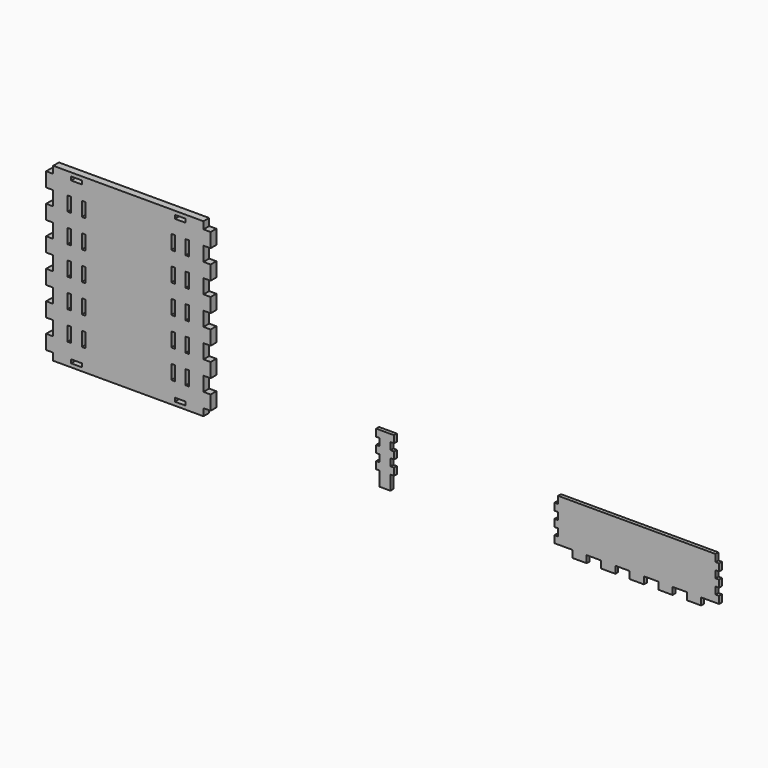
from build123d import *

# Parameters (mm, degrees)
F0_W     = 12.7
F0_H     = 6.35
F1_DEPTH = 3.175
F2_W     = 3.175
F2_H     = 6.35
F2_W_2   = 9.525
F3_DEPTH = 3.175
F4_W     = 9.525
F4_H     = 3.175
F4_W_2   = 3.175
F4_H_2   = 12.7
F4_W_3   = 6.35
F5_DEPTH = 6.35


with BuildPart() as f1:
    # F0 (on Front) → F1 (new body)
    with BuildSketch(Plane.XZ):
        Polygon((0, 6.35), (0, 0), (15.875, 0), (28.575, 0), (41.275, 0), (53.975, 0), (66.675, 0), (79.375, 0), (92.075, 0), (104.775, 0), (117.475, 0), (130.175, 0), (146.05, 0), (146.05, 6.35), (142.875, 6.35), (142.875, 12.7), (146.05, 12.7), (146.05, 19.05), (142.875, 19.05), (142.875, 25.4), (146.05, 25.4), (146.05, 31.75), (142.875, 31.75), (142.875, 38.1), (3.175, 38.1), (3.175, 31.75), (0, 31.75), (0, 25.4), (3.175, 25.4), (3.175, 19.05), (0, 19.05), (0, 12.7), (3.175, 12.7), (3.175, 6.35), align=None)
        with Locations((22.225, -3.175)):
            Rectangle(F0_W, F0_H)
        with Locations((47.625, -3.175)):
            Rectangle(F0_W, F0_H)
        with Locations((73.025, -3.175)):
            Rectangle(F0_W, F0_H)
        with Locations((98.425, -3.175)):
            Rectangle(F0_W, F0_H)
        with Locations((123.825, -3.175)):
            Rectangle(F0_W, F0_H)
    extrude(amount=F1_DEPTH)


with BuildPart() as f3:
    # F2 (on Front) → F3 (new body)
    with BuildSketch(Plane.XZ):
        Polygon((-155.164769, 0), (-145.639769, 0), (-145.639769, 6.35), (-145.639769, 12.7), (-145.639769, 19.05), (-145.639769, 25.4), (-145.639769, 31.75), (-145.639769, 38.1), (-155.164769, 38.1), (-155.164769, 31.75), (-155.164769, 25.4), (-155.164769, 19.05), (-155.164769, 12.7), (-155.164769, 6.35), align=None)
        with Locations((-156.752269, 22.225)):
            Rectangle(F2_W, F2_H)
        with Locations((-156.752269, 9.525)):
            Rectangle(F2_W, F2_H)
        with Locations((-144.052269, 9.525)):
            Rectangle(F2_W, F2_H)
        with Locations((-144.052269, 22.225)):
            Rectangle(F2_W, F2_H)
        with Locations((-144.052269, 34.925)):
            Rectangle(F2_W, F2_H)
        with Locations((-156.752269, 34.925)):
            Rectangle(F2_W, F2_H)
        with Locations((-150.402269, -3.175)):
            Rectangle(F2_W_2, F2_H)
    extrude(amount=F3_DEPTH)


with BuildPart() as f5:
    # F4 (on Front) → F5 (new body)
    with BuildSketch(Plane.XZ):
        Polygon((-442.459938, 0), (-309.109938, 0), (-309.109938, 6.35), (-309.109938, 19.05), (-309.109938, 31.75), (-309.109938, 44.45), (-309.109938, 57.15), (-309.109938, 69.85), (-309.109938, 82.55), (-309.109938, 95.25), (-309.109938, 107.95), (-309.109938, 120.65), (-309.109938, 133.35), (-309.109938, 146.05), (-309.109938, 152.4), (-442.459938, 152.4), (-442.459938, 146.05), (-442.459938, 133.35), (-442.459938, 127), (-442.459938, 120.65), (-442.459938, 107.95), (-442.459938, 101.6), (-442.459938, 95.25), (-442.459938, 82.55), (-442.459938, 76.2), (-442.459938, 69.85), (-442.459938, 57.15), (-442.459938, 50.8), (-442.459938, 44.45), (-442.459938, 31.75), (-442.459938, 19.05), (-442.459938, 6.35), align=None)
        with Locations((-421.822438, 4.7625)):
            Rectangle(F4_W, F4_H, mode=Mode.SUBTRACT)
        with Locations((-428.172438, 25.4)):
            Rectangle(F4_W_2, F4_H_2, mode=Mode.SUBTRACT)
        with Locations((-415.472438, 25.4)):
            Rectangle(F4_W_2, F4_H_2, mode=Mode.SUBTRACT)
        with Locations((-428.172438, 50.8)):
            Rectangle(F4_W_2, F4_H_2, mode=Mode.SUBTRACT)
        with Locations((-415.472438, 50.8)):
            Rectangle(F4_W_2, F4_H_2, mode=Mode.SUBTRACT)
        with Locations((-428.172438, 76.2)):
            Rectangle(F4_W_2, F4_H_2, mode=Mode.SUBTRACT)
        with Locations((-415.472438, 76.2)):
            Rectangle(F4_W_2, F4_H_2, mode=Mode.SUBTRACT)
        with Locations((-329.747438, 4.7625)):
            Rectangle(F4_W, F4_H, mode=Mode.SUBTRACT)
        with Locations((-336.097438, 25.4)):
            Rectangle(F4_W_2, F4_H_2, mode=Mode.SUBTRACT)
        with Locations((-323.397438, 25.4)):
            Rectangle(F4_W_2, F4_H_2, mode=Mode.SUBTRACT)
        with Locations((-336.097438, 50.8)):
            Rectangle(F4_W_2, F4_H_2, mode=Mode.SUBTRACT)
        with Locations((-323.397438, 50.8)):
            Rectangle(F4_W_2, F4_H_2, mode=Mode.SUBTRACT)
        with Locations((-336.097438, 76.2)):
            Rectangle(F4_W_2, F4_H_2, mode=Mode.SUBTRACT)
        with Locations((-323.397438, 76.2)):
            Rectangle(F4_W_2, F4_H_2, mode=Mode.SUBTRACT)
        with Locations((-428.172438, 101.6)):
            Rectangle(F4_W_2, F4_H_2, mode=Mode.SUBTRACT)
        with Locations((-415.472438, 101.6)):
            Rectangle(F4_W_2, F4_H_2, mode=Mode.SUBTRACT)
        with Locations((-428.172438, 127)):
            Rectangle(F4_W_2, F4_H_2, mode=Mode.SUBTRACT)
        with Locations((-415.472438, 127)):
            Rectangle(F4_W_2, F4_H_2, mode=Mode.SUBTRACT)
        with Locations((-421.822438, 147.6375)):
            Rectangle(F4_W, F4_H, mode=Mode.SUBTRACT)
        with Locations((-336.097438, 101.6)):
            Rectangle(F4_W_2, F4_H_2, mode=Mode.SUBTRACT)
        with Locations((-323.397438, 101.6)):
            Rectangle(F4_W_2, F4_H_2, mode=Mode.SUBTRACT)
        with Locations((-336.097438, 127)):
            Rectangle(F4_W_2, F4_H_2, mode=Mode.SUBTRACT)
        with Locations((-323.397438, 127)):
            Rectangle(F4_W_2, F4_H_2, mode=Mode.SUBTRACT)
        with Locations((-329.747438, 147.6375)):
            Rectangle(F4_W, F4_H, mode=Mode.SUBTRACT)
        with Locations((-305.934938, 12.7)):
            Rectangle(F4_W_3, F4_H_2)
        with Locations((-445.634938, 12.7)):
            Rectangle(F4_W_3, F4_H_2)
        with Locations((-305.934938, 38.1)):
            Rectangle(F4_W_3, F4_H_2)
        with Locations((-445.634938, 38.1)):
            Rectangle(F4_W_3, F4_H_2)
        with Locations((-305.934938, 63.5)):
            Rectangle(F4_W_3, F4_H_2)
        with Locations((-445.634938, 63.5)):
            Rectangle(F4_W_3, F4_H_2)
        with Locations((-305.934938, 88.9)):
            Rectangle(F4_W_3, F4_H_2)
        with Locations((-305.934938, 114.3)):
            Rectangle(F4_W_3, F4_H_2)
        with Locations((-445.634938, 88.9)):
            Rectangle(F4_W_3, F4_H_2)
        with Locations((-305.934938, 139.7)):
            Rectangle(F4_W_3, F4_H_2)
        with Locations((-445.634938, 114.3)):
            Rectangle(F4_W_3, F4_H_2)
        with Locations((-445.634938, 139.7)):
            Rectangle(F4_W_3, F4_H_2)
    extrude(amount=F5_DEPTH)


solid = Compound([f1.part, f3.part, f5.part])
